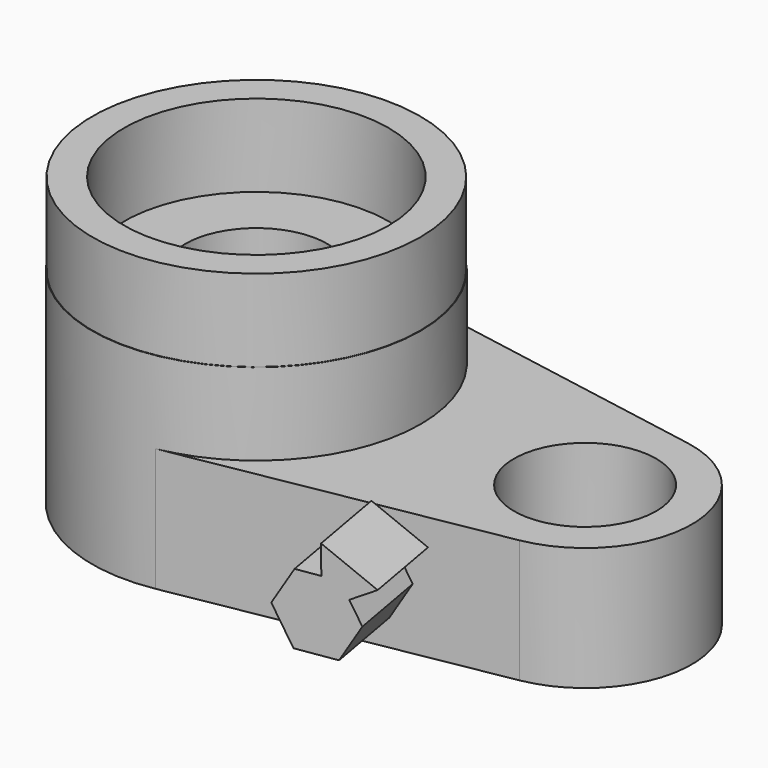
from build123d import *

# Parameters (mm, degrees)
F0_R     = 21.971
F1_DEPTH = 38.1
F2_DEPTH = 63.5
F5_DEPTH = 25.4
F6_R     = 50.6512427991
F6_R_2   = 40.8739745441
F7_DEPTH = 25.4


with BuildPart() as f1:
    # F0 (on Top) → F1 (new body)
    with BuildSketch(Plane.XY):
        with BuildLine():
            ThreePointArc((8.89, -50.0160764155), (38.9374626806, -32.6268907498), (50.8, 0))
            ThreePointArc((50.8, 0), (38.9374626806, 32.6268907498), (8.89, 50.0160764155))
            ThreePointArc((8.89, 50.0160764155), (-50.8, 0), (8.89, -50.0160764155))
        make_face()
        with BuildLine():
            ThreePointArc((-19.7989700742, 9.525), (0, 21.971), (19.7989700742, 9.525))
            Line((19.7989700742, 9.525), (31.75, 9.525))
            Line((31.75, 9.525), (31.75, -9.525))
            Line((31.75, -9.525), (19.7989700742, -9.525))
            ThreePointArc((19.7989700742, -9.525), (0, -21.971), (-19.7989700742, -9.525))
            Line((-19.7989700742, -9.525), (-31.75, -9.525))
            Line((-31.75, -9.525), (-31.75, 9.525))
            Line((-31.75, 9.525), (-19.7989700742, 9.525))
        make_face(mode=Mode.SUBTRACT)
        with BuildLine():
            ThreePointArc((8.89, 50.0160764155), (38.9374626806, 32.6268907498), (50.8, 0))
            ThreePointArc((50.8, 0), (38.9374626806, -32.6268907498), (8.89, -50.0160764155))
            Line((8.89, -50.0160764155), (107.3785, -32.5104496701))
            ThreePointArc((107.3785, -32.5104496701), (68.58, 0), (107.3785, 32.5104496701))
            Line((107.3785, 32.5104496701), (8.89, 50.0160764155))
        make_face()
        with BuildLine():
            ThreePointArc((134.62, 0), (126.9093507424, 21.2074789874), (107.3785, 32.5104496701))
            ThreePointArc((107.3785, 32.5104496701), (68.58, 0), (107.3785, -32.5104496701))
            ThreePointArc((107.3785, -32.5104496701), (126.9093507424, -21.2074789874), (134.62, 0))
        make_face()
        with Locations((101.6, 0)):
            Circle(F0_R, mode=Mode.SUBTRACT)
        with BuildLine():
            ThreePointArc((-19.7989700742, -9.525), (-21.971, 0), (-19.7989700742, 9.525))
            Line((-19.7989700742, 9.525), (-31.75, 9.525))
            Line((-31.75, 9.525), (-31.75, -9.525))
            Line((-31.75, -9.525), (-19.7989700742, -9.525))
        make_face()
    extrude(amount=F1_DEPTH)

    # F0 (on Top) → F2 (join)
    with BuildSketch(Plane.XY):
        with BuildLine():
            ThreePointArc((8.89, -50.0160764155), (38.9374626806, -32.6268907498), (50.8, 0))
            ThreePointArc((50.8, 0), (38.9374626806, 32.6268907498), (8.89, 50.0160764155))
            ThreePointArc((8.89, 50.0160764155), (-50.8, 0), (8.89, -50.0160764155))
        make_face()
        with BuildLine():
            ThreePointArc((-19.7989700742, 9.525), (0, 21.971), (19.7989700742, 9.525))
            Line((19.7989700742, 9.525), (31.75, 9.525))
            Line((31.75, 9.525), (31.75, -9.525))
            Line((31.75, -9.525), (19.7989700742, -9.525))
            ThreePointArc((19.7989700742, -9.525), (0, -21.971), (-19.7989700742, -9.525))
            Line((-19.7989700742, -9.525), (-31.75, -9.525))
            Line((-31.75, -9.525), (-31.75, 9.525))
            Line((-31.75, 9.525), (-19.7989700742, 9.525))
        make_face(mode=Mode.SUBTRACT)
        with BuildLine():
            ThreePointArc((-19.7989700742, -9.525), (-21.971, 0), (-19.7989700742, 9.525))
            Line((-19.7989700742, 9.525), (-31.75, 9.525))
            Line((-31.75, 9.525), (-31.75, -9.525))
            Line((-31.75, -9.525), (-19.7989700742, -9.525))
        make_face()
    extrude(amount=F2_DEPTH)

    # F4 (on face) → F5 (join)
    with BuildSketch(Plane(origin=(8.89, -50.0160764155, 0), x_dir=(0.9845684334, 0.175, 0), z_dir=(0.175, -0.9845684334, 0))):
        Polygon((64.2408422213, 8.1636081304), (70.6394698458, 18.9178303739), (67.0485100533, 25.3305059427), (59.4336241402, 20.8529178065), (59.3616303693, 29.9041031382), (52.0126105242, 30.0005785183), (45.6139828997, 19.2463562748), (51.7280987483, 8.3278710809), align=None)
        Polygon((59.4336241402, 20.8529178065), (67.0485100533, 25.3305059427), (64.5253539973, 29.8363155678), (59.3616303693, 29.9041031382), align=None)
        Polygon((64.5253539973, 29.8363155678), (67.0485100533, 25.3305059427), (74.8510695994, 29.9184470431), (59.2913682522, 38.7375818539), (59.3616303693, 29.9041031382), align=None)
    extrude(amount=F5_DEPTH)

    # F6 (on face) → F7 (join)
    with BuildSketch(Plane.XY.offset(63.5)):
        Circle(F6_R)
        Circle(F6_R_2, mode=Mode.SUBTRACT)
    extrude(amount=F7_DEPTH)


solid = f1.part
